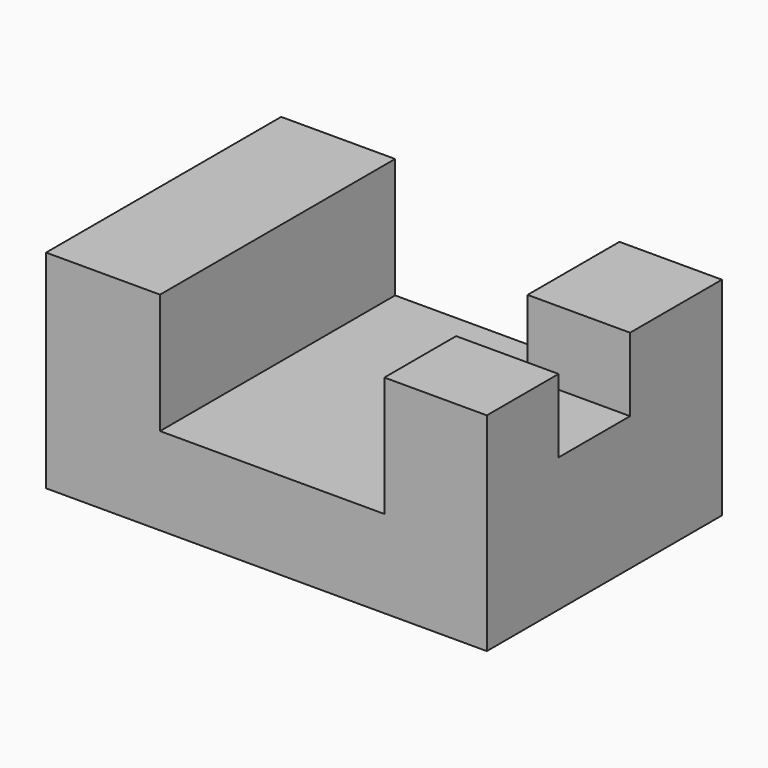
from build123d import *

# Parameters (mm, degrees)
F1_DEPTH = 25.4
F2_DEPTH = 25.4
F3_W     = 17.7121385932
F3_H     = 15.4453162104
F4_DEPTH = 12.7


with BuildPart() as f1:
    # F0 (on Front) → F1 (new body)
    with BuildSketch(Plane.XZ):
        Polygon((0, 35.8823463321), (0, 0), (76.1927291751, 0), (76.1927291751, 35.8823463321), (58.4805905819, 35.8823463321), (58.4805905819, 15.1163935661), (19.6971185505, 15.1163935661), (19.6971185505, 35.8823463321), align=None)
    extrude(amount=F1_DEPTH)

    # F2 (add): a face of the model
    f2_faces = [f1.faces().sort_by_distance(p)[0] for p in [
        (37.6819042915, -25.4, 14.7848969887),
    ]]
    extrude(f2_faces, amount=F2_DEPTH)

    # F3 (on face) → F4 (cut, symmetric)
    with BuildSketch(Plane.XY.offset(35.8823463321)):
        with Locations((67.3366598785, -27.5759203359)):
            Rectangle(F3_W, F3_H)
    extrude(amount=F4_DEPTH, both=True, mode=Mode.SUBTRACT)


solid = f1.part
